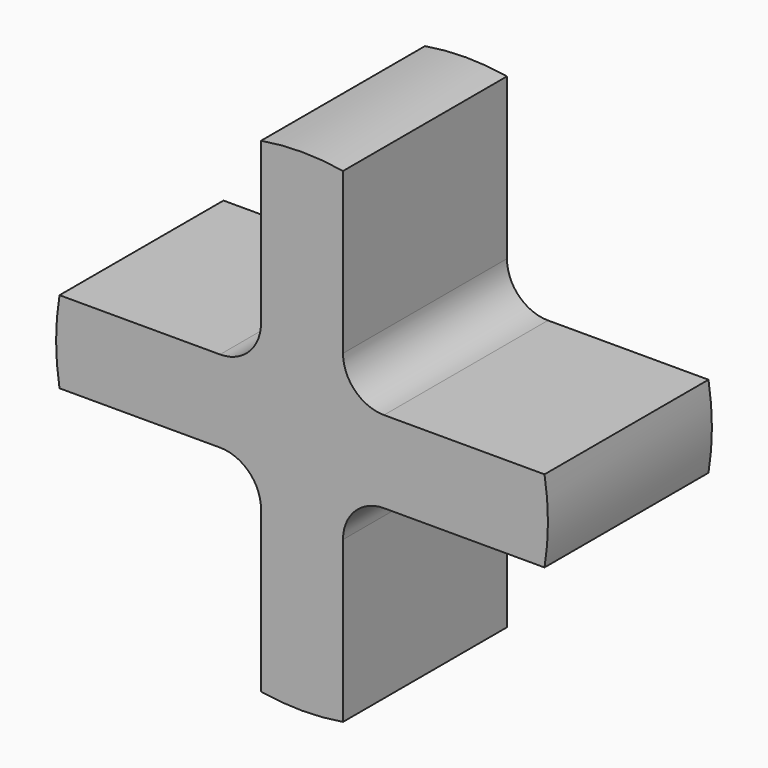
from build123d import *

# Parameters (mm, degrees)
F1_DEPTH = 25
F2_R     = 5


with BuildPart() as f1:
    # F0 (on Front) → F1 (new body)
    with BuildSketch(Plane.XZ):
        with BuildLine():
            Line((5, 5), (5, 29.580399))
            ThreePointArc((5, 29.580399), (0, 30), (-5, 29.580399))
            Line((-5, 29.580399), (-5, 5))
            Line((-5, 5), (-29.580399, 5))
            ThreePointArc((-29.580399, 5), (-30, 0), (-29.580399, -5))
            Line((-29.580399, -5), (-5, -5))
            Line((-5, -5), (-5, -29.580399))
            ThreePointArc((-5, -29.580399), (0, -30), (5, -29.580399))
            Line((5, -29.580399), (5, -5))
            Line((5, -5), (29.580399, -5))
            ThreePointArc((29.580399, -5), (30, 0), (29.580399, 5))
            Line((29.580399, 5), (5, 5))
        make_face()
    extrude(amount=F1_DEPTH)

    # F2
    f2_edges = [f1.edges().sort_by_distance(p)[0] for p in [
        (-5, -12.5, 5),
        (5, -12.5, 5),
        (-5, -12.5, -5),
        (5, -12.5, -5),
    ]]
    fillet(f2_edges, radius=F2_R)


solid = f1.part
